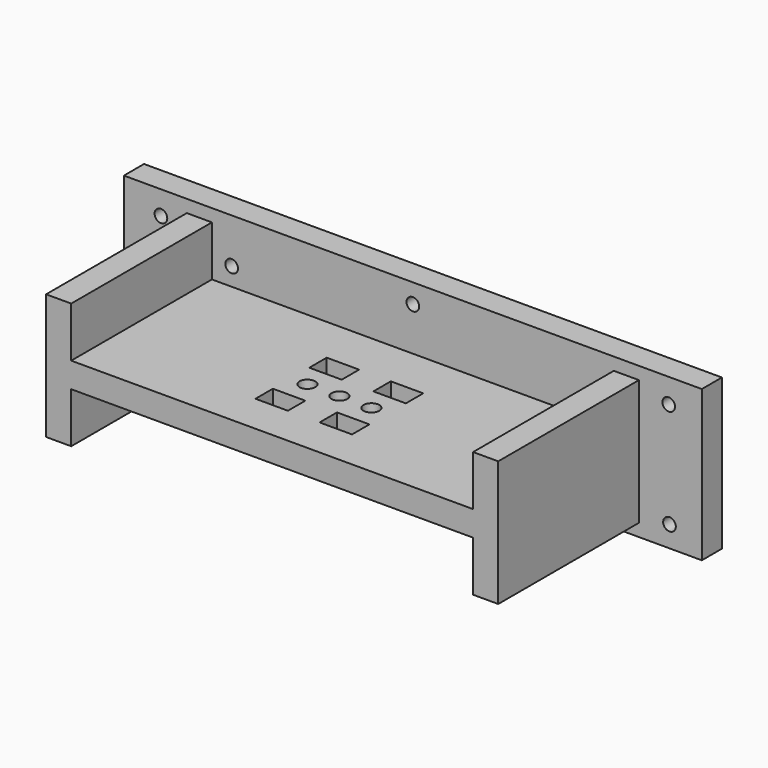
from build123d import *

# Parameters (mm, degrees)
F0_W      = 146.05
F0_H      = 38.1
F1_DEPTH  = 6.35
F2_W      = 101.6
F2_H      = 6.35
F3_DEPTH  = 44.45
F4_W      = 6.35
F4_H      = 31.75
F5_DEPTH  = 44.45
F6_R      = 1.6
F7_DEPTH  = 6.351
F8_W      = 8.2
F8_H      = 5.5
F9_DEPTH  = 22.226
F10_R     = 2
F11_DEPTH = 22.226


with BuildPart() as f1:
    # F0 (on Front) → F1 (new body)
    with BuildSketch(Plane.XZ):
        Rectangle(F0_W, F0_H)
    extrude(amount=F1_DEPTH)

    # F2 (on face) → F3 (join)
    with BuildSketch(Plane.XZ.offset(6.35)):
        Rectangle(F2_W, F2_H)
    extrude(amount=F3_DEPTH)

    # F4 (on face) → F5 (join)
    with BuildSketch(Plane.XZ.offset(6.35)):
        with Locations((-53.957961, 0)):
            Rectangle(F4_W, F4_H)
        with Locations((53.957961, 0)):
            Rectangle(F4_W, F4_H)
    extrude(amount=F5_DEPTH)

    # F6 (on face) → F7 (cut, through all)
    with BuildSketch(Plane.XZ.offset(6.35)):
        with Locations((0, 14.169781)):
            Circle(F6_R)
        with Locations((44.810925, 8.448409)):
            Circle(F6_R)
        with Locations((64.655818, 12.911452)):
            Circle(F6_R)
        with Locations((64.852946, -13.699939)):
            Circle(F6_R)
        with Locations((45.368467, -8.138511)):
            Circle(F6_R)
        with Locations((0, -14.424114)):
            Circle(F6_R)
        with Locations((-45.650516, -8.138511)):
            Circle(F6_R)
        with Locations((-45.789901, 7.751479)):
            Circle(F6_R)
        with Locations((-63.670218, 13.108574)):
            Circle(F6_R)
        with Locations((-63.867338, -11.728724)):
            Circle(F6_R)
    extrude(amount=-F7_DEPTH, mode=Mode.SUBTRACT)

    # F8 (on face) → F9 (cut, through all)
    with BuildSketch(Plane(origin=(0, 0, -3.175), x_dir=(1, 0, 0), z_dir=(0, 0, -1))):
        with Locations((-8.117039, 38.05)):
            Rectangle(F8_W, F8_H)
        with Locations((8.082961, 38.05)):
            Rectangle(F8_W, F8_H)
        with Locations((-8.117039, 21.05)):
            Rectangle(F8_W, F8_H)
        with Locations((8.082961, 21.05)):
            Rectangle(F8_W, F8_H)
    extrude(amount=-F9_DEPTH, mode=Mode.SUBTRACT)

    # F10 (on face) → F11 (cut, through all)
    with BuildSketch(Plane(origin=(0, 0, -3.175), x_dir=(1, 0, 0), z_dir=(0, 0, -1))):
        with Locations((0, 29.55)):
            Circle(F10_R)
        with Locations((8.083, 29.55)):
            Circle(F10_R)
        with Locations((-8.083, 29.55)):
            Circle(F10_R)
    extrude(amount=-F11_DEPTH, mode=Mode.SUBTRACT)


solid = f1.part
